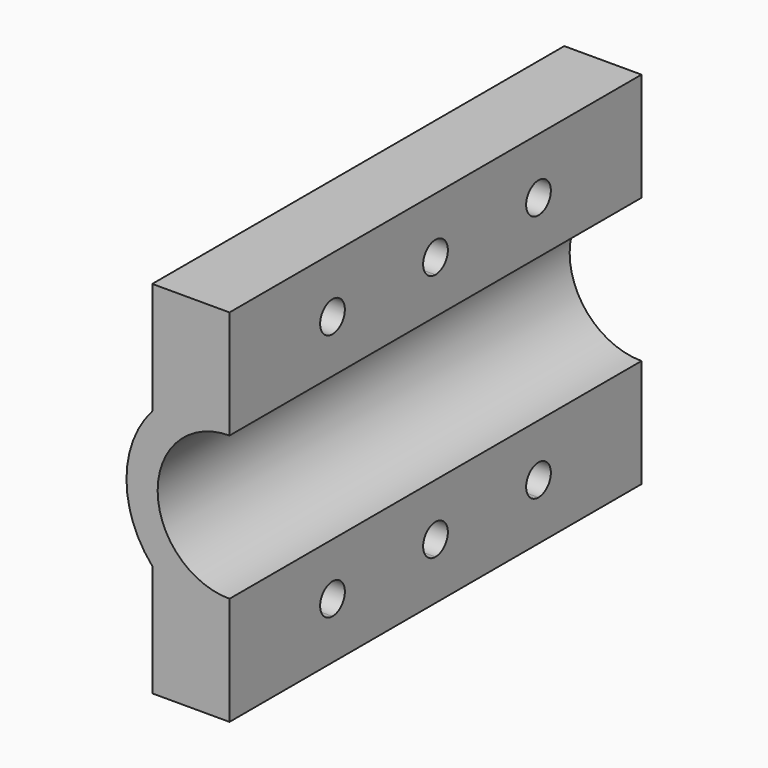
from build123d import *

# Parameters (mm, degrees)
F1_DEPTH = 127
F3_DEPTH = 25.4
F4_R     = 3.81
F5_DEPTH = 25.4


with BuildPart() as f1:
    # F0 (on Front) → F1 (new body)
    with BuildSketch(Plane.XZ):
        with BuildLine():
            Line((-19.05, 44.45), (-19.05, 16.800521))
            ThreePointArc((-19.05, 16.800521), (-25.4, 0), (-19.05, -16.800521))
            Line((-19.05, -16.800521), (-19.05, -44.45))
            Line((-19.05, -44.45), (0, -44.45))
            Line((0, -44.45), (0, -17.7165))
            ThreePointArc((0, -17.7165), (-17.7165, 0), (0, 17.7165))
            Line((0, 17.7165), (0, 44.45))
            Line((0, 44.45), (-19.05, 44.45))
        make_face()
    extrude(amount=F1_DEPTH)

    # F2 (on face) → F3 (cut)
    with BuildSketch(Plane(origin=(-19.05, 0, 0), x_dir=(0, -1, 0), z_dir=(-1, 0, 0))):
        with BuildLine():
            ThreePointArc((67.31, -30.62526), (66.194077, -27.931184), (63.5, -26.81526))
            Line((63.5, -26.81526), (63.5, -34.43526))
            ThreePointArc((63.5, -34.43526), (66.194077, -33.319337), (67.31, -30.62526))
        make_face()
        with BuildLine():
            Line((63.5, -34.43526), (63.5, -26.81526))
            ThreePointArc((63.5, -26.81526), (59.69, -30.62526), (63.5, -34.43526))
        make_face()
        with BuildLine():
            ThreePointArc((35.56, -30.62526), (34.444077, -27.931184), (31.75, -26.81526))
            Line((31.75, -26.81526), (31.75, -34.43526))
            ThreePointArc((31.75, -34.43526), (34.444077, -33.319337), (35.56, -30.62526))
        make_face()
        with BuildLine():
            Line((31.75, -34.43526), (31.75, -26.81526))
            ThreePointArc((31.75, -26.81526), (27.94, -30.62526), (31.75, -34.43526))
        make_face()
        with BuildLine():
            ThreePointArc((95.25, -34.43526), (97.944077, -33.319337), (99.06, -30.62526))
            ThreePointArc((99.06, -30.62526), (97.944077, -27.931184), (95.25, -26.81526))
            Line((95.25, -26.81526), (95.25, -34.43526))
        make_face()
        with BuildLine():
            Line((95.25, -34.43526), (95.25, -26.81526))
            ThreePointArc((95.25, -26.81526), (91.44, -30.62526), (95.25, -34.43526))
        make_face()
    extrude(amount=-F3_DEPTH, mode=Mode.SUBTRACT)

    # F4 (on face) → F5 (cut)
    with BuildSketch(Plane(origin=(-19.05, 0, 0), x_dir=(0, -1, 0), z_dir=(-1, 0, 0))):
        with BuildLine():
            ThreePointArc((63.5, 26.81526), (66.194077, 27.931184), (67.31, 30.62526))
            ThreePointArc((67.31, 30.62526), (66.194077, 33.319337), (63.5, 34.43526))
            Line((63.5, 34.43526), (63.5, 26.81526))
        make_face()
        with BuildLine():
            Line((63.5, 26.81526), (63.5, 34.43526))
            ThreePointArc((63.5, 34.43526), (59.69, 30.62526), (63.5, 26.81526))
        make_face()
        with Locations((31.75, 30.62526)):
            Circle(F4_R)
        with Locations((95.25, 30.62526)):
            Circle(F4_R)
    extrude(amount=-F5_DEPTH, mode=Mode.SUBTRACT)


solid = f1.part
